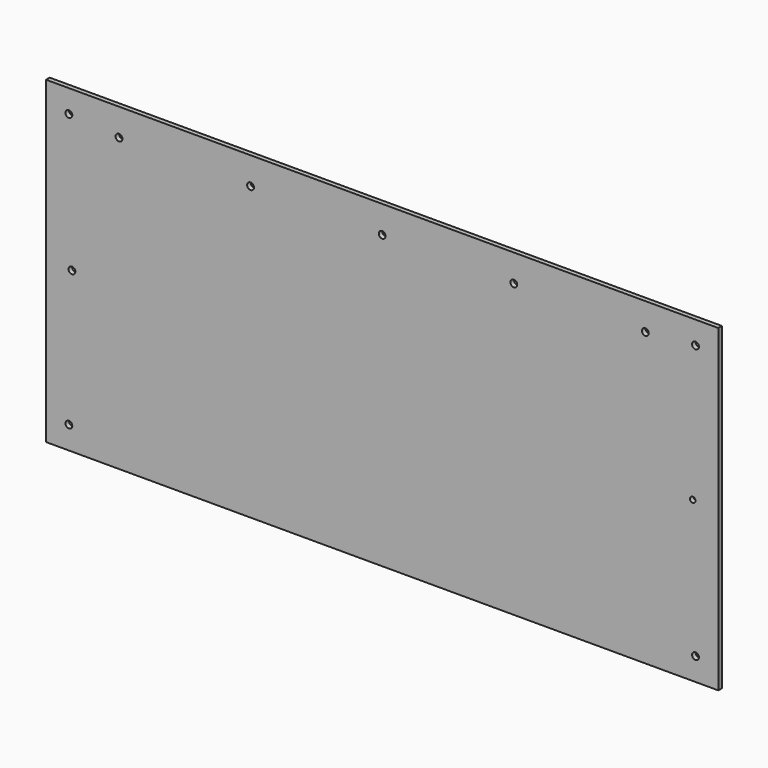
from build123d import *

# Parameters (mm, degrees)
SKETCH005_W     = 2
SKETCH005_H     = 140
PAD002_DEPTH    = 295
SKETCH019_R     = 1.5
SKETCH019_R_2   = 1.21447
POCKET008_DEPTH = 5
SKETCH097_R     = 1.5
POCKET055_DEPTH = 5


with BuildPart() as part:
    # Sketch005 → Pad002 (new body)
    with BuildSketch(Plane.YZ):
        with Locations((1, 70)):
            Rectangle(SKETCH005_W, SKETCH005_H)
    extrude(amount=PAD002_DEPTH)

    # Sketch019 (on Face1 of Pad002) → Pocket008 (cut)
    with BuildSketch(Plane(origin=(0, 0, 0), x_dir=(0, 0, -1), z_dir=(0, -1, 0))):
        with Locations((-130, 285)):
            Circle(SKETCH019_R)
        with Locations((-10, 285)):
            Circle(SKETCH019_R)
        with Locations((-70, 283.78553)):
            Circle(SKETCH019_R_2)
        with Locations((-10, 10)):
            Circle(SKETCH019_R)
        with Locations((-70, 11.35879)):
            Circle(SKETCH019_R)
        with Locations((-130, 10)):
            Circle(SKETCH019_R)
    extrude(amount=-POCKET008_DEPTH, mode=Mode.SUBTRACT)

    # Sketch097 (on Face1 of Binder037) → Pocket055 (cut)
    with BuildSketch(Plane(origin=(0, 4, 0), x_dir=(-1, 0, 0), z_dir=(0, 1, 0))):
        with Locations((-32, 128.029529)):
            Circle(SKETCH097_R)
        with Locations((-89.75, 128.029529)):
            Circle(SKETCH097_R)
        with Locations((-147.5, 128.029529)):
            Circle(SKETCH097_R)
        with Locations((-205.25, 128.029529)):
            Circle(SKETCH097_R)
        with Locations((-263, 128.029529)):
            Circle(SKETCH097_R)
    extrude(amount=-POCKET055_DEPTH, mode=Mode.SUBTRACT)


with BuildPart() as part_1:
    # Body001 placement: moved
    add(part.part.moved(Location((605, -2.1, -343.2))))


solid = part_1.part
